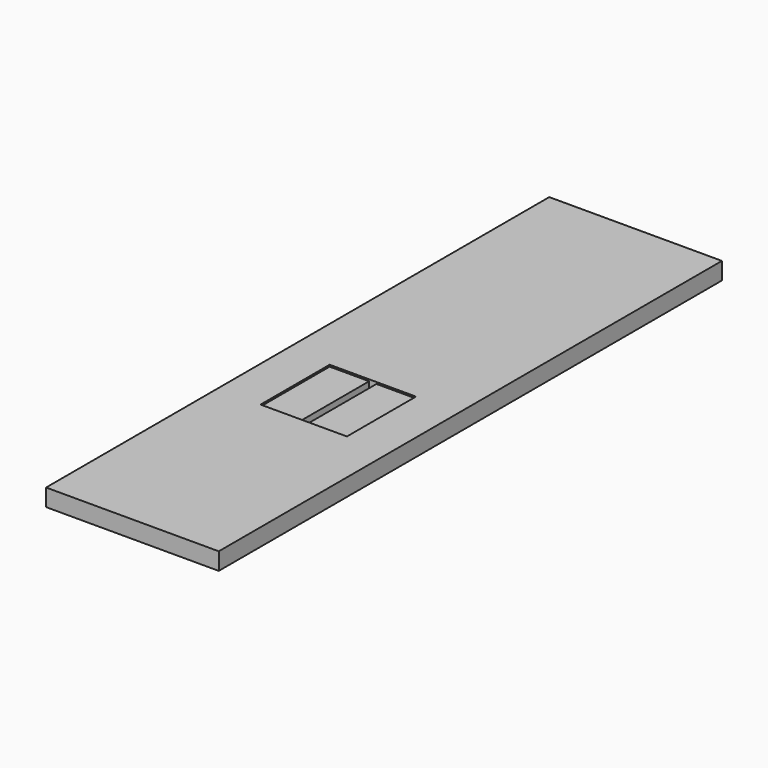
from build123d import *

# Parameters (mm, degrees)
SKETCH_W     = 10
SKETCH_H     = 36.42
SKETCH_W_2   = 0.424
SKETCH_H_2   = 5
PAD_DEPTH    = 1
SKETCH001_W  = 5
SKETCH001_H  = 5
POCKET_DEPTH = 0.1


with BuildPart() as part:
    # Sketch → Pad (new body)
    with BuildSketch(Plane.XY):
        with Locations((5, 18.21)):
            Rectangle(SKETCH_W, SKETCH_H)
        with Locations((5, 14.9)):
            Rectangle(SKETCH_W_2, SKETCH_H_2, mode=Mode.SUBTRACT)
    extrude(amount=PAD_DEPTH)

    # Sketch001 (on Face10 of Pad) → Pocket (cut)
    with BuildSketch(Plane.XY.offset(1)):
        with Locations((5, 14.9)):
            Rectangle(SKETCH001_W, SKETCH001_H)
    extrude(amount=-POCKET_DEPTH, mode=Mode.SUBTRACT)


solid = part.part
